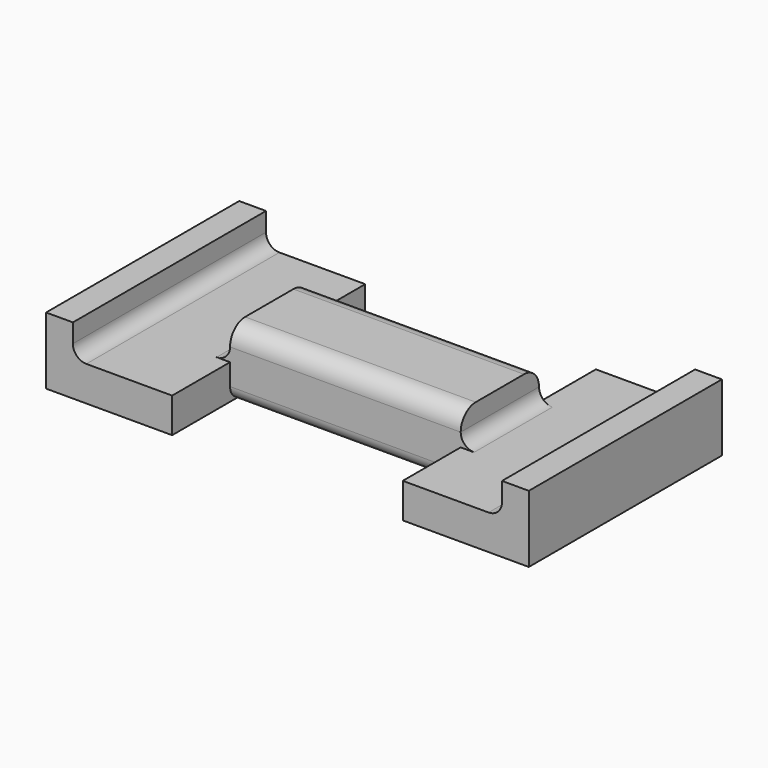
from build123d import *

# Parameters (mm, degrees)
BOX002_W     = 37
BOX002_H     = 100
BOX002_DEPTH = 30
BOX003_W     = 86
BOX003_H     = 28
BOX003_DEPTH = 42
BOX004_W     = 86
BOX004_H     = 27.5
BOX004_DEPTH = 42
BOX001_W     = 37
BOX001_H     = 100
BOX001_DEPTH = 30
BOX_W        = 180
BOX_H        = 90
BOX_DEPTH    = 25
FILLET_R     = 5
FILLET001_R  = 5
FILLET002_R  = 7


with BuildPart() as cube002:
    # Box002 → Box002 (new body)
    with BuildSketch(Plane(origin=(133, -5, 13), x_dir=(1, 0, 0), z_dir=(0, 0, 1))):
        with Locations((18.5, 50)):
            Rectangle(BOX002_W, BOX002_H)
    extrude(amount=BOX002_DEPTH)


with BuildPart() as cube003:
    # Box003 → Box003 (new body)
    with BuildSketch(Plane(origin=(47, -1, -1), x_dir=(1, 0, 0), z_dir=(0, 0, 1))):
        with Locations((43, 14)):
            Rectangle(BOX003_W, BOX003_H)
    extrude(amount=BOX003_DEPTH)


with BuildPart() as cube004:
    # Box004 → Box004 (new body)
    with BuildSketch(Plane(origin=(47, 63.5, -1), x_dir=(1, 0, 0), z_dir=(0, 0, 1))):
        with Locations((43, 13.75)):
            Rectangle(BOX004_W, BOX004_H)
    extrude(amount=BOX004_DEPTH)


with BuildPart() as fusion:
    # Box001 → Box001 (new body)
    with BuildSketch(Plane(origin=(10, -5, 13), x_dir=(1, 0, 0), z_dir=(0, 0, 1))):
        with Locations((18.5, 50)):
            Rectangle(BOX001_W, BOX001_H)
    extrude(amount=BOX001_DEPTH)

    # Fusion: union Cube002, Cube003, Cube004
    add(cube002.part)
    add(cube003.part)
    add(cube004.part)


with BuildPart() as fillet002:
    # Box → Box (new body)
    with BuildSketch(Plane.XY):
        with Locations((90, 45)):
            Rectangle(BOX_W, BOX_H)
    extrude(amount=BOX_DEPTH)

    # Cut: cut Fusion
    add(fusion.part, mode=Mode.SUBTRACT)

    # Fillet
    fillet_edges = [fillet002.edges().sort_by_distance(p)[0] for p in [
        (10, 45, 13),
        (47, 45.25, 13),
        (133, 45.25, 13),
        (170, 45, 13),
    ]]
    fillet(fillet_edges, radius=FILLET_R)

    # Fillet001
    fillet001_edges = [fillet002.edges().sort_by_distance(p)[0] for p in [
        (90, 63.5, 0),
        (90, 27, 0),
    ]]
    fillet(fillet001_edges, radius=FILLET001_R)

    # Fillet002
    fillet002_edges = [fillet002.edges().sort_by_distance(p)[0] for p in [
        (90, 27, 25),
        (90, 63.5, 25),
    ]]
    fillet(fillet002_edges, radius=FILLET002_R)


solid = fillet002.part
